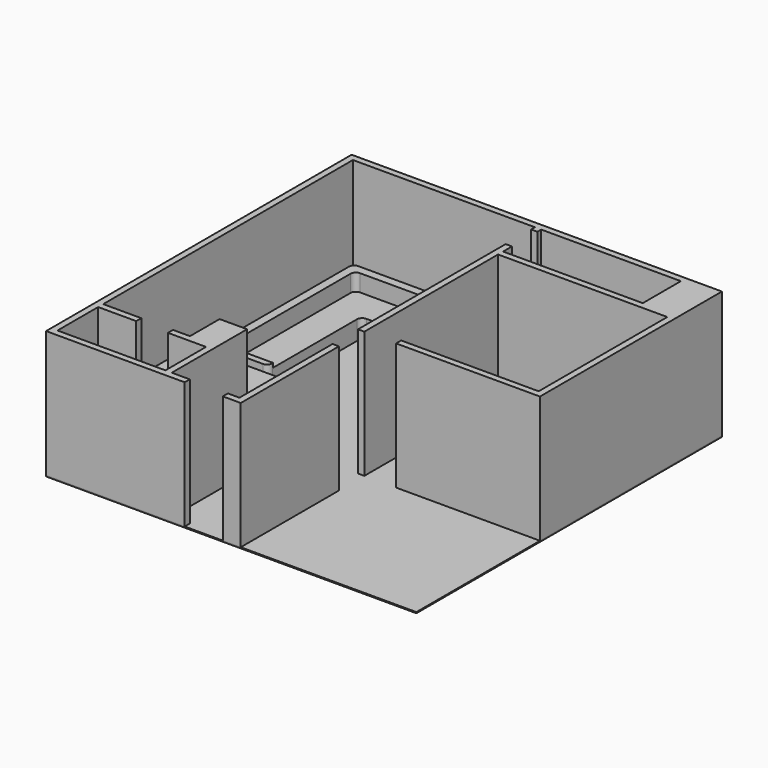
from build123d import *

# Parameters (mm, degrees)
F1_DEPTH  = 1016
F3_DEPTH  = 76.2
F5_DEPTH  = 1955.8
F6_W      = 8890
F6_H      = 9169.4
F7_DEPTH  = 25.4
F9_DEPTH  = 457.2
F11_DEPTH = 101.6
F13_DEPTH = 304.8
F14_W     = 457.2
F14_H     = 1016
F15_DEPTH = 1016
F16_W     = 76.2
F16_H     = 711.2
F17_DEPTH = 762
F18_W     = 2133.6
F18_H     = 1905
F19_DEPTH = 609.6


with BuildPart() as f1:
    # F0 (on Top) → F1 (new body)
    with BuildSketch(Plane.XY):
        Polygon((-4368.8, 152.4), (-4368.8, 4927.6), (0, 4927.6), (0, 4813.3), (152.4, 4813.3), (152.4, 4927.6), (3505.2, 4927.6), (3505.2, 3784.6), (152.4, 3784.6), (152.4, 4051.3), (0, 4051.3), (0, 0), (0, -381), (152.4, -381), (152.4, 0), (152.4, 3632.2), (4216.4, 3632.2), (4216.4, -228.6), (914.4, -228.6), (914.4, -381), (4216.4, -381), (4368.8, -381), (4368.8, 3632.2), (4368.8, 3784.6), (4368.8, 5080), (3505.2, 5080), (152.4, 5080), (-4521.2, 5080), (-4521.2, 0), (-4521.2, -6.74503), (-4521.2, -1866.195499), (-4521.2, -4089.4), (-4368.8, -4089.4), (-1625.6, -4089.4), (-1193.8, -4089.4), (-1193.8, -3937), (-1625.6, -3937), (-1625.6, -2565.4), (-1625.6, -1676.4), (-2286, -1676.4), (-2286, -2565.4), (-2692.4, -2565.4), (-2692.4, -2717.8), (-1778, -2717.8), (-1778, -3937), (-4368.8, -3937), (-4368.8, -2717.8), (-3454.4, -2717.8), (-3454.4, -2565.4), (-3657.6, -2565.4), (-4368.8, -2565.4), (-4368.8, -762), (-4368.8, 0), align=None)
        Polygon((-3657.6, 0), (-4368.8, 0), (-4368.8, -762), (-4368.8, -2565.4), (-3657.6, -2565.4), (-3657.6, -762), (-2286, -762), (-2286, 0), (-2311.890112, 0), align=None)
        Polygon((-279.4, -4089.4), (152.4, -4089.4), (152.4, -3937), (152.4, -1143), (0, -1143), (0, -3937), (-279.4, -3937), align=None)
    extrude(amount=F1_DEPTH)

    # F2 (on face) → F3 (join)
    with BuildSketch(Plane.XY.offset(1016)):
        Polygon((-2286, -762), (-2286, 0), (-4368.8, 0), (-4368.8, 101.6), (-4368.8, 4927.6), (0, 4927.6), (0, 4813.3), (152.4, 4813.3), (152.4, 4927.6), (3505.2, 4927.6), (3505.2, 3784.6), (152.4, 3784.6), (152.4, 4051.3), (0, 4051.3), (0, -381), (152.4, -381), (152.4, 3632.2), (4216.4, 3632.2), (4216.4, -228.6), (914.4, -228.6), (914.4, -381), (4368.8, -381), (4368.8, 5080), (-4521.2, 5080), (-4521.2, -4089.4), (-1193.8, -4089.4), (-1193.8, -3937), (-1625.6, -3937), (-1625.6, -1676.4), (-2286, -1676.4), (-2286, -2565.4), (-2692.4, -2565.4), (-2692.4, -2717.8), (-1778, -2717.8), (-1778, -3937), (-4368.8, -3937), (-4368.8, -2717.8), (-3454.4, -2717.8), (-3454.4, -2565.4), (-3657.6, -2565.4), (-3657.6, -762), align=None)
        Polygon((0, -1143), (0, -3937), (-279.4, -3937), (-279.4, -4089.4), (152.4, -4089.4), (152.4, -1143), align=None)
        Polygon((-4368.8, 0), (-2286, 0), (-2286, -762), (-2184.4, -762), (-2184.4, 101.6), (-2286, 101.6), (-4368.8, 101.6), align=None)
    extrude(amount=F3_DEPTH)

    # F4 (on face) → F5 (join)
    with BuildSketch(Plane.XY.offset(1092.2)):
        Polygon((0, -1143), (0, -3937), (-279.4, -3937), (-279.4, -4089.4), (152.4, -4089.4), (152.4, -1143), align=None)
        Polygon((-3454.4, -2565.4), (-3657.6, -2565.4), (-4368.8, -2565.4), (-4368.8, 101.6), (-4368.8, 4927.6), (0, 4927.6), (0, 4813.3), (152.4, 4813.3), (152.4, 4927.6), (3505.2, 4927.6), (3505.2, 3784.6), (152.4, 3784.6), (152.4, 4051.3), (0, 4051.3), (0, -381), (152.4, -381), (152.4, 3632.2), (4216.4, 3632.2), (4216.4, -228.6), (914.4, -228.6), (914.4, -381), (4368.8, -381), (4368.8, 5080), (-4521.2, 5080), (-4521.2, -4089.4), (-1193.8, -4089.4), (-1193.8, -3937), (-1625.6, -3937), (-1625.6, -1676.4), (-2286, -1676.4), (-2286, -2565.4), (-2692.4, -2565.4), (-2692.4, -2717.8), (-1778, -2717.8), (-1778, -3937), (-4368.8, -3937), (-4368.8, -2717.8), (-3454.4, -2717.8), align=None)
    extrude(amount=F5_DEPTH)


with BuildPart() as f7:
    # F6 (on face) → F7 (new body)
    with BuildSketch(Plane(origin=(0, 0, 0), x_dir=(1, 0, 0), z_dir=(0, 0, -1))):
        with Locations((-76.2, -495.3)):
            Rectangle(F6_W, F6_H)
    extrude(amount=F7_DEPTH)


with BuildPart() as f9:
    # F8 (on face) → F9 (new body)
    with BuildSketch(Plane.XY):
        with BuildLine():
            Line((-4216.4, 4902.2), (-4343.4, 4902.2))
            Line((-4343.4, 4902.2), (-4343.4, 4775.2))
            ThreePointArc((-4343.4, 4775.2), (-4306.202561, 4865.002561), (-4216.4, 4902.2))
        make_face()
        with BuildLine():
            Line((-3378.2, 4902.2), (-4216.4, 4902.2))
            ThreePointArc((-4216.4, 4902.2), (-4306.202561, 4865.002561), (-4343.4, 4775.2))
            Line((-4343.4, 4775.2), (-4343.4, 3937))
            Line((-4343.4, 3937), (-4343.4, 1270))
            ThreePointArc((-4343.4, 1270), (-4306.202561, 1180.197439), (-4216.4, 1143))
            Line((-4216.4, 1143), (-3505.2, 1143))
            ThreePointArc((-3505.2, 1143), (-3415.397439, 1180.197439), (-3378.2, 1270))
            Line((-3378.2, 1270), (-3378.2, 3810))
            ThreePointArc((-3378.2, 3810), (-3341.002561, 3899.802561), (-3251.2, 3937))
            Line((-3251.2, 3937), (-1600.2, 3937))
            ThreePointArc((-1600.2, 3937), (-1510.397439, 3974.197439), (-1473.2, 4064))
            Line((-1473.2, 4064), (-1473.2, 4775.2))
            ThreePointArc((-1473.2, 4775.2), (-1510.397439, 4865.002561), (-1600.2, 4902.2))
            Line((-1600.2, 4902.2), (-3378.2, 4902.2))
        make_face()
    extrude(amount=F9_DEPTH)

    # F10 (on face) → F11 (join)
    with BuildSketch(Plane.XY.offset(457.2)):
        with BuildLine():
            Line((-1600.2, 4902.2), (-4216.4, 4902.2))
            ThreePointArc((-4216.4, 4902.2), (-4306.202561, 4865.002561), (-4343.4, 4775.2))
            Line((-4343.4, 4775.2), (-4343.4, 1270))
            ThreePointArc((-4343.4, 1270), (-4306.202561, 1180.197439), (-4216.4, 1143))
            Line((-4216.4, 1143), (-3505.2, 1143))
            ThreePointArc((-3505.2, 1143), (-3415.397439, 1180.197439), (-3378.2, 1270))
            Line((-3378.2, 1270), (-3378.2, 1295.4))
            Line((-3378.2, 1295.4), (-4140.2, 1295.4))
            Line((-4140.2, 1295.4), (-4140.2, 4572))
            ThreePointArc((-4140.2, 4572), (-4103.002561, 4661.802561), (-4013.2, 4699))
            Line((-4013.2, 4699), (-1625.6, 4699))
            Line((-1625.6, 4699), (-1625.6, 3937))
            Line((-1625.6, 3937), (-1600.2, 3937))
            ThreePointArc((-1600.2, 3937), (-1510.397439, 3974.197439), (-1473.2, 4064))
            Line((-1473.2, 4064), (-1473.2, 4775.2))
            ThreePointArc((-1473.2, 4775.2), (-1510.397439, 4865.002561), (-1600.2, 4902.2))
        make_face()
    extrude(amount=F11_DEPTH)

    # F12 (on face) → F13 (join)
    with BuildSketch(Plane.XY.offset(558.8)):
        with BuildLine():
            ThreePointArc((-4140.2, 4572), (-4103.002561, 4661.802561), (-4013.2, 4699))
            Line((-4013.2, 4699), (-1625.6, 4699))
            Line((-1625.6, 4699), (-1473.2, 4699))
            Line((-1473.2, 4699), (-1473.2, 4775.2))
            ThreePointArc((-1473.2, 4775.2), (-1510.397439, 4865.002561), (-1600.2, 4902.2))
            Line((-1600.2, 4902.2), (-4216.4, 4902.2))
            ThreePointArc((-4216.4, 4902.2), (-4306.202561, 4865.002561), (-4343.4, 4775.2))
            Line((-4343.4, 4775.2), (-4343.4, 1270))
            ThreePointArc((-4343.4, 1270), (-4306.202561, 1180.197439), (-4216.4, 1143))
            Line((-4216.4, 1143), (-4140.2, 1143))
            Line((-4140.2, 1143), (-4140.2, 1295.4))
            Line((-4140.2, 1295.4), (-4140.2, 4572))
        make_face()
    extrude(amount=F13_DEPTH)


with BuildPart() as f15:
    # F14 (on face) → F15 (new body)
    with BuildSketch(Plane.XY):
        with Locations((-279.4, 2590.8)):
            Rectangle(F14_W, F14_H)
    extrude(amount=F15_DEPTH)


with BuildPart() as f17:
    # F16 (on face) → F17 (new body)
    with BuildSketch(Plane.XY.offset(1016)):
        with Locations((-241.3, 2590.8)):
            Rectangle(F16_W, F16_H)
    extrude(amount=F17_DEPTH)


with BuildPart() as f19:
    # F18 (on face) → F19 (new body)
    with BuildSketch(Plane.XY):
        with Locations((3098.8, 1701.8)):
            Rectangle(F18_W, F18_H)
    extrude(amount=F19_DEPTH)


solid = Compound([f1.part, f7.part, f9.part, f15.part, f17.part, f19.part])
